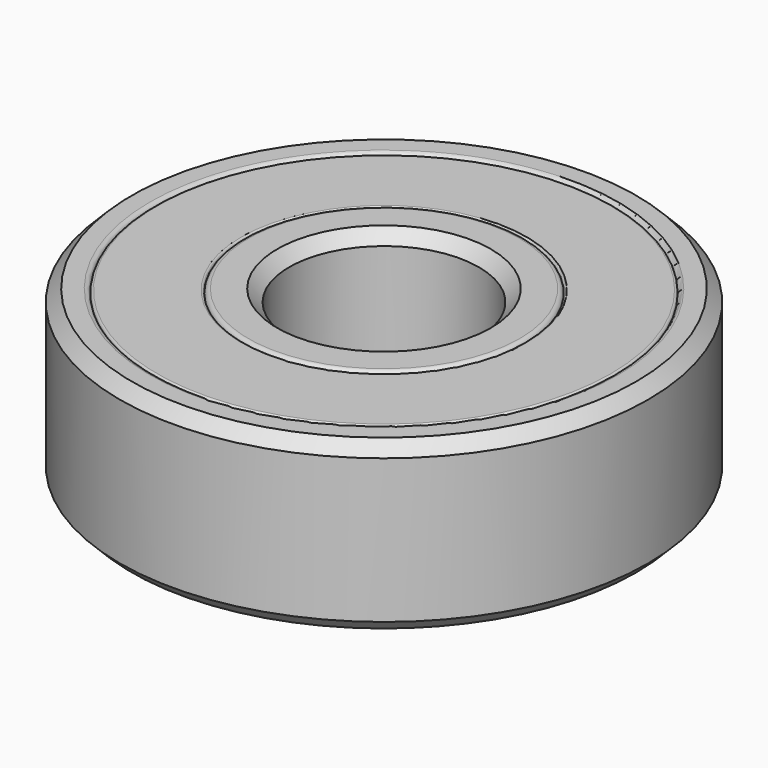
from build123d import *

# Parameters (mm, degrees)
F0_R      = 11
F0_R_2    = 9.55
F1_DEPTH  = 3.5
F0_R_3    = 5.85
F0_R_4    = 3.95
F2_DEPTH  = 3.45
F3_SIZE   = 0.5
F3_2_SIZE = 0.5
F4_R      = 0.2
F4_2_R    = 0.2
F4_3_R    = 0.2
F5_R      = 0.1


with BuildPart() as f1:
    # F0 (on Top) → F1 (new body, symmetric)
    with BuildSketch(Plane.XY):
        Circle(F0_R)
        Circle(F0_R_2, mode=Mode.SUBTRACT)
    extrude(amount=F1_DEPTH, both=True)

    # F3
    f3_edges = [f1.edges().sort_by_distance(p)[0] for p in [
        (-11, 0, 3.5),
        (-11, 0, -3.5),
    ]]
    chamfer(f3_edges, length=F3_SIZE)

    # F4#2
    f4_2_edges = [f1.edges().sort_by_distance(p)[0] for p in [
        (-9.55, 0, 3.5),
        (-9.55, 0, -3.5),
    ]]
    fillet(f4_2_edges, radius=F4_2_R)


with BuildPart() as f1b:
    # F0 (on Top) → F1, piece 2 (new body, symmetric)
    with BuildSketch(Plane.XY):
        Circle(F0_R_3)
        Circle(F0_R_4, mode=Mode.SUBTRACT)
    extrude(amount=F1_DEPTH, both=True)

    # F3#2
    f3_2_edges = [f1b.edges().sort_by_distance(p)[0] for p in [
        (-3.95, 0, 3.5),
        (-3.95, 0, -3.5),
    ]]
    chamfer(f3_2_edges, length=F3_2_SIZE)

    # F4
    f4_edges = [f1b.edges().sort_by_distance(p)[0] for p in [
        (-5.85, 0, 3.5),
    ]]
    fillet(f4_edges, radius=F4_R)


with BuildPart() as f2:
    # F0 (on Top) → F2 (new body, symmetric)
    with BuildSketch(Plane.XY):
        Circle(F0_R_2)
        Circle(F0_R_3, mode=Mode.SUBTRACT)
    extrude(amount=F2_DEPTH, both=True)

    # F4#3
    f4_3_edges = [f2.edges().sort_by_distance(p)[0] for p in [
        (-5.85, 0, -3.45),
    ]]
    fillet(f4_3_edges, radius=F4_3_R)

    # F5
    f5_edges = [f2.edges().sort_by_distance(p)[0] for p in [
        (-5.85, 0, 3.45),
        (-9.55, 0, 3.45),
        (-9.55, 0, -3.45),
        (5.908579, 0, -3.391421),
        (-5.85, 0, -3.25),
        (-6.05, 0, -3.45),
    ]]
    fillet(f5_edges, radius=F5_R)


solid = Compound([f1.part, f1b.part, f2.part])
